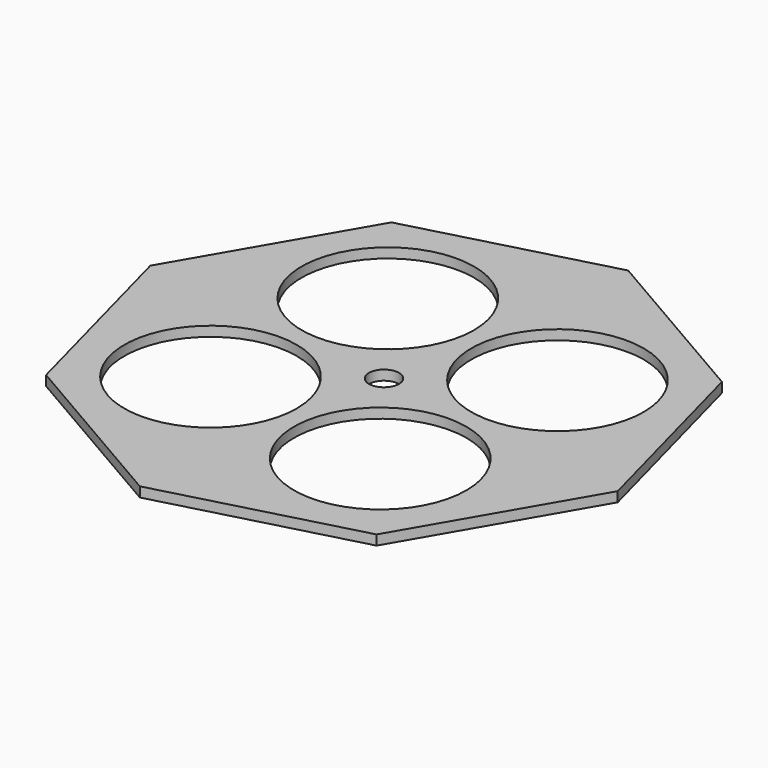
from build123d import *

# Parameters (mm, degrees)
F1_R     = 47.095
F1_R_2   = 17.5
F1_R_3   = 3.05
F2_DEPTH = 2


with BuildPart() as f2:
    # F1 (on offset) → F2 (new body)
    with BuildSketch(Plane.XY.offset(200)):
        Polygon((-32.5393686004, 42.5539186241), (-53.098972618, 7.0813562323), (-42.5539186241, -32.5393686004), (-7.0813562323, -53.098972618), (32.5393686004, -42.5539186241), (53.098972618, -7.0813562323), (42.5539186241, 32.5393686004), (7.0813562323, 53.098972618), align=None)
        Circle(F1_R, mode=Mode.SUBTRACT)
        Circle(F1_R)
        with Locations((-21.8453019556, -16.7042743772)):
            Circle(F1_R_2, mode=Mode.SUBTRACT)
        with Locations((16.7042743772, -21.8453019556)):
            Circle(F1_R_2, mode=Mode.SUBTRACT)
        with Locations((-16.7042743772, 21.8453019556)):
            Circle(F1_R_2, mode=Mode.SUBTRACT)
        Circle(F1_R_3, mode=Mode.SUBTRACT)
        with Locations((21.8453019556, 16.7042743772)):
            Circle(F1_R_2, mode=Mode.SUBTRACT)
    extrude(amount=F2_DEPTH)


solid = f2.part
